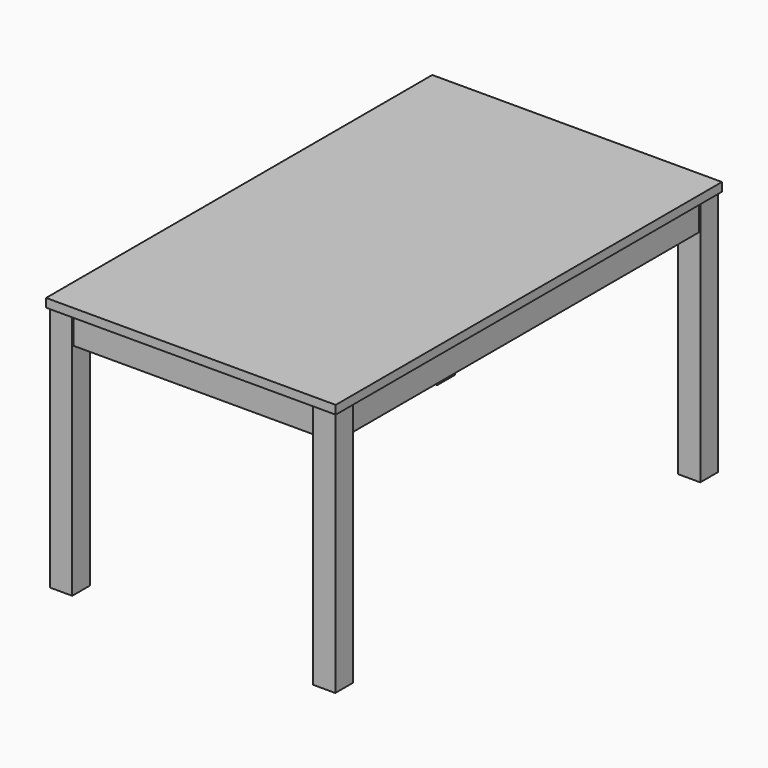
from build123d import *

# Parameters (mm, degrees)
F0_W     = 840
F0_H     = 1400
F1_DEPTH = 25
F3_DEPTH = 715
F2_W     = 18
F2_H     = 1258
F2_W_2   = 698
F2_H_2   = 18
F4_DEPTH = 78


with BuildPart() as f1:
    # F0 (on Top) → F1 (new body)
    with BuildSketch(Plane.XY):
        Rectangle(F0_W, F0_H)
    extrude(amount=F1_DEPTH)

    # F2 (on face) → F3 (join)
    with BuildSketch(Plane(origin=(0, 0, 0), x_dir=(1, 0, 0), z_dir=(0, 0, -1))):
        Polygon((349, 672), (349, 629), (392, 629), (410, 629), (414, 629), (414, 694), (349, 694), (349, 690), align=None)
        Polygon((410, -629), (392, -629), (349, -629), (349, -672), (349, -690), (349, -694), (414, -694), (414, -629), align=None)
        Polygon((-349, -690), (-349, -672), (-349, -629), (-392, -629), (-410, -629), (-414, -629), (-414, -694), (-349, -694), align=None)
        Polygon((-349, 629), (-349, 672), (-349, 690), (-349, 694), (-414, 694), (-414, 629), (-410, 629), (-392, 629), align=None)
    extrude(amount=F3_DEPTH)

    # F2 (on face) → F4 (join)
    with BuildSketch(Plane(origin=(0, 0, 0), x_dir=(1, 0, 0), z_dir=(0, 0, -1))):
        with Locations((401, 0)):
            Rectangle(F2_W, F2_H)
        with Locations((0, 681)):
            Rectangle(F2_W_2, F2_H_2)
        with Locations((-401, 0)):
            Rectangle(F2_W, F2_H)
        with Locations((0, -681)):
            Rectangle(F2_W_2, F2_H_2)
    extrude(amount=F4_DEPTH)


solid = f1.part
